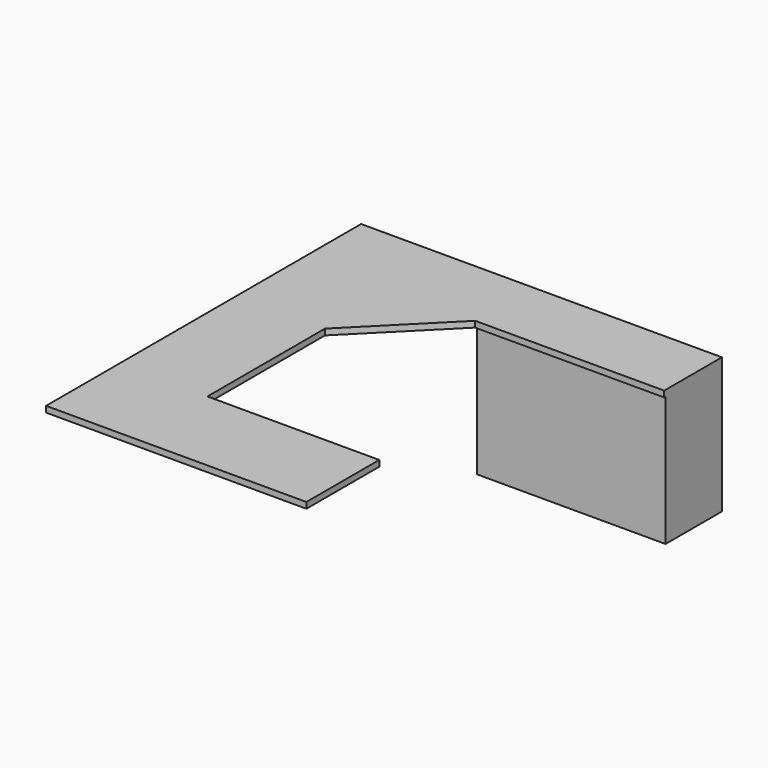
from build123d import *

# Parameters (mm, degrees)
F0_W     = 1097
F0_H     = 410
F1_DEPTH = 755
F2_W     = 1097
F2_H     = 410
F2_W_2   = 515
F2_H_2   = 855
F3_DEPTH = 35


with BuildPart() as f1:
    # F0 (on Top) → F1 (new body)
    with BuildSketch(Plane.XY):
        with Locations((-548.5, -205)):
            Rectangle(F0_W, F0_H)
    extrude(amount=F1_DEPTH)

    # F2 (on face) → F3 (join)
    with BuildSketch(Plane.XY.offset(755)):
        with Locations((-548.5, -205)):
            Rectangle(F2_W, F2_H)
        Polygon((-585, -1761.563459), (-1585, -1761.563459), (-2100, -1761.563459), (-2100, -2291.563459), (-585, -2291.563459), align=None)
        Polygon((-1097, -410), (-1097, 0), (-1100, 0), (-1100, -420), (0, -420), (0, -410), align=None)
        Polygon((-1100, -420), (-1100, 0), (-2100, 0), (-2100, -906.563459), (-1585, -906.563459), align=None)
        with Locations((-1842.5, -1334.063459)):
            Rectangle(F2_W_2, F2_H_2)
    extrude(amount=F3_DEPTH)


solid = f1.part
